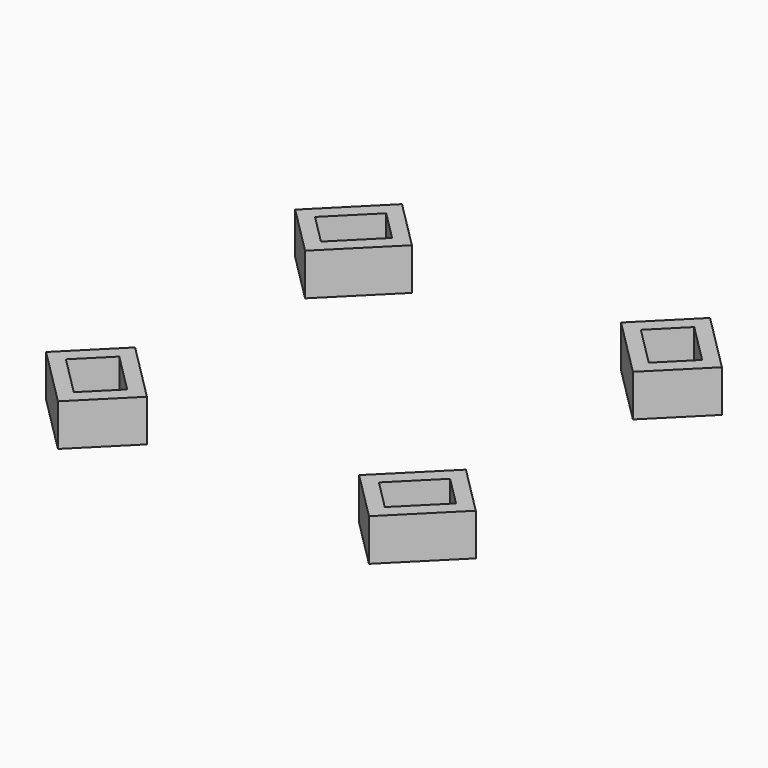
from build123d import *

# Parameters (mm, degrees)
BOX041_W               = 6
BOX041_H               = 8
BOX041_DEPTH           = 6
BOX040_W               = 10
BOX040_H               = 12
BOX040_DEPTH           = 6
CUT044_PLACEMENT_ANGLE = 45
BOX043_W               = 6
BOX043_H               = 8
BOX043_DEPTH           = 6
BOX042_W               = 10
BOX042_H               = 12
BOX042_DEPTH           = 6
CUT045_PLACEMENT_ANGLE = 45
BOX045_W               = 8
BOX045_H               = 6
BOX045_DEPTH           = 6
BOX044_W               = 12
BOX044_H               = 10
BOX044_DEPTH           = 6
CUT046_PLACEMENT_ANGLE = 45
BOX047_W               = 8
BOX047_H               = 6
BOX047_DEPTH           = 6
BOX046_W               = 12
BOX046_H               = 10
BOX046_DEPTH           = 6
CUT047_PLACEMENT_ANGLE = 45


with BuildPart() as cube033:
    # Box041 → Box041 (new body)
    with BuildSketch(Plane(origin=(2, 2, 0), x_dir=(1, 0, 0), z_dir=(0, 0, 1))):
        with Locations((3, 4)):
            Rectangle(BOX041_W, BOX041_H)
    extrude(amount=BOX041_DEPTH)


with BuildPart() as obj1:
    # Box040 → Box040 (new body)
    with BuildSketch(Plane.XY):
        with Locations((5, 6)):
            Rectangle(BOX040_W, BOX040_H)
    extrude(amount=BOX040_DEPTH)

    # Cut044: cut Cube033
    add(cube033.part, mode=Mode.SUBTRACT)


with BuildPart() as obj1_1:
    # Cut044 placement: moved
    add(obj1.part.moved(Location((46.28, 45.08, -8))).rotate(Axis((46.28, 45.08, -8), (0, 0, 1)), CUT044_PLACEMENT_ANGLE))


with BuildPart() as cube035:
    # Box043 → Box043 (new body)
    with BuildSketch(Plane(origin=(2, 2, 0), x_dir=(1, 0, 0), z_dir=(0, 0, 1))):
        with Locations((3, 4)):
            Rectangle(BOX043_W, BOX043_H)
    extrude(amount=BOX043_DEPTH)


with BuildPart() as mic_cube001:
    # Box042 → Box042 (new body)
    with BuildSketch(Plane.XY):
        with Locations((5, 6)):
            Rectangle(BOX042_W, BOX042_H)
    extrude(amount=BOX042_DEPTH)

    # Cut045: cut Cube035
    add(cube035.part, mode=Mode.SUBTRACT)


with BuildPart() as mic_cube001_1:
    # Cut045 placement: moved
    add(mic_cube001.part.moved(Location((0.6, -0.6, -8))).rotate(Axis((0.6, -0.6, -8), (0, 0, 1)), CUT045_PLACEMENT_ANGLE))


with BuildPart() as cube037:
    # Box045 → Box045 (new body)
    with BuildSketch(Plane(origin=(2, 2, 0), x_dir=(1, 0, 0), z_dir=(0, 0, 1))):
        with Locations((4, 3)):
            Rectangle(BOX045_W, BOX045_H)
    extrude(amount=BOX045_DEPTH)


with BuildPart() as mic_cube002:
    # Box044 → Box044 (new body)
    with BuildSketch(Plane.XY):
        with Locations((6, 5)):
            Rectangle(BOX044_W, BOX044_H)
    extrude(amount=BOX044_DEPTH)

    # Cut046: cut Cube037
    add(cube037.part, mode=Mode.SUBTRACT)


with BuildPart() as mic_cube002_1:
    # Cut046 placement: moved
    add(mic_cube002.part.moved(Location((45.08, -0.6, -8))).rotate(Axis((45.08, -0.6, -8), (0, 0, 1)), CUT046_PLACEMENT_ANGLE))


with BuildPart() as cube039:
    # Box047 → Box047 (new body)
    with BuildSketch(Plane(origin=(2, 2, 0), x_dir=(1, 0, 0), z_dir=(0, 0, 1))):
        with Locations((4, 3)):
            Rectangle(BOX047_W, BOX047_H)
    extrude(amount=BOX047_DEPTH)


with BuildPart() as obj2:
    # Box046 → Box046 (new body)
    with BuildSketch(Plane.XY):
        with Locations((6, 5)):
            Rectangle(BOX046_W, BOX046_H)
    extrude(amount=BOX046_DEPTH)

    # Cut047: cut Cube039
    add(cube039.part, mode=Mode.SUBTRACT)


with BuildPart() as obj2_1:
    # Cut047 placement: moved
    add(obj2.part.moved(Location((-0.6, 45.08, -8))).rotate(Axis((-0.6, 45.08, -8), (0, 0, 1)), CUT047_PLACEMENT_ANGLE))

    # Fusion022: union obj1, Mic_Cube001, Mic_Cube002
    add(obj1_1.part)
    add(mic_cube001_1.part)
    add(mic_cube002_1.part)


with BuildPart() as obj2_2:
    # Fusion022 placement: moved
    add(obj2_1.part.moved(Location((43, 25, 0))))


solid = obj2_2.part
